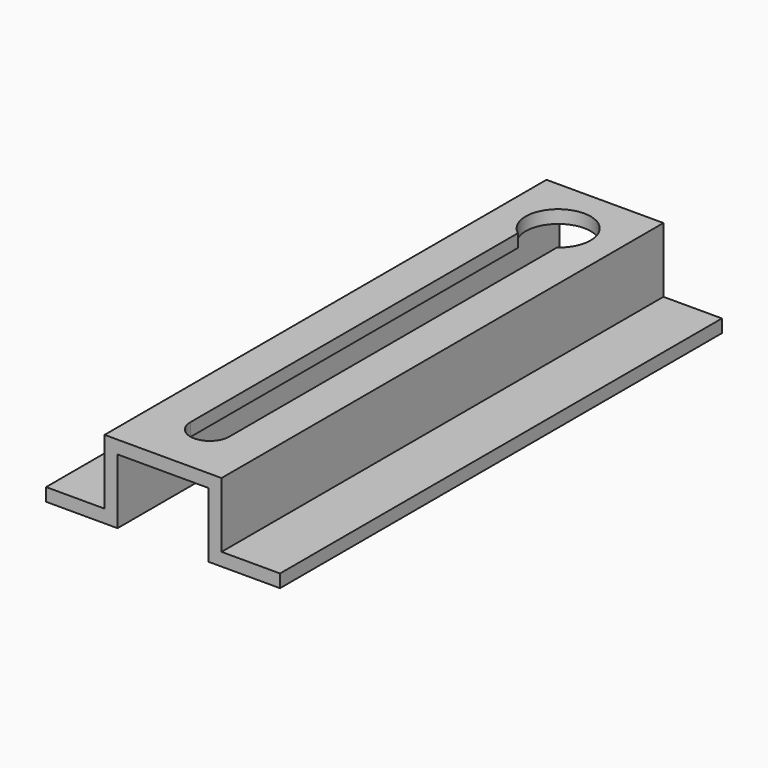
from build123d import *

# Parameters (mm, degrees)
F0_W     = 18
F0_H     = 85
F1_DEPTH = 2
F2_W     = 2
F2_H     = 85
F3_DEPTH = 10
F4_W     = 85
F4_H     = 2
F5_DEPTH = 9
F6_W     = 85
F6_H     = 2
F7_DEPTH = 9


with BuildPart() as f1:
    # F0 (on Top) → F1 (new body)
    with BuildSketch(Plane.XY):
        with Locations((-9, 42.5)):
            Rectangle(F0_W, F0_H)
        with BuildLine():
            ThreePointArc((-12, 72), (-9, 81), (-6, 72))
            Line((-6, 72), (-6, 9))
            ThreePointArc((-6, 9), (-9, 6), (-12, 9))
            Line((-12, 9), (-12, 72))
        make_face(mode=Mode.SUBTRACT)
    extrude(amount=-F1_DEPTH)

    # F2 (on face) → F3 (join)
    with BuildSketch(Plane(origin=(0, 0, -2), x_dir=(1, 0, 0), z_dir=(0, 0, -1))):
        with Locations((-1, -42.5)):
            Rectangle(F2_W, F2_H)
        with Locations((-17, -42.5)):
            Rectangle(F2_W, F2_H)
    extrude(amount=F3_DEPTH)

    # F4 (on face) → F5 (join)
    with BuildSketch(Plane.YZ):
        with Locations((42.5, -11)):
            Rectangle(F4_W, F4_H)
    extrude(amount=F5_DEPTH)

    # F6 (on face) → F7 (join)
    with BuildSketch(Plane(origin=(-18, 0, 0), x_dir=(0, -1, 0), z_dir=(-1, 0, 0))):
        with Locations((-42.5, -11)):
            Rectangle(F6_W, F6_H)
    extrude(amount=F7_DEPTH)


solid = f1.part
